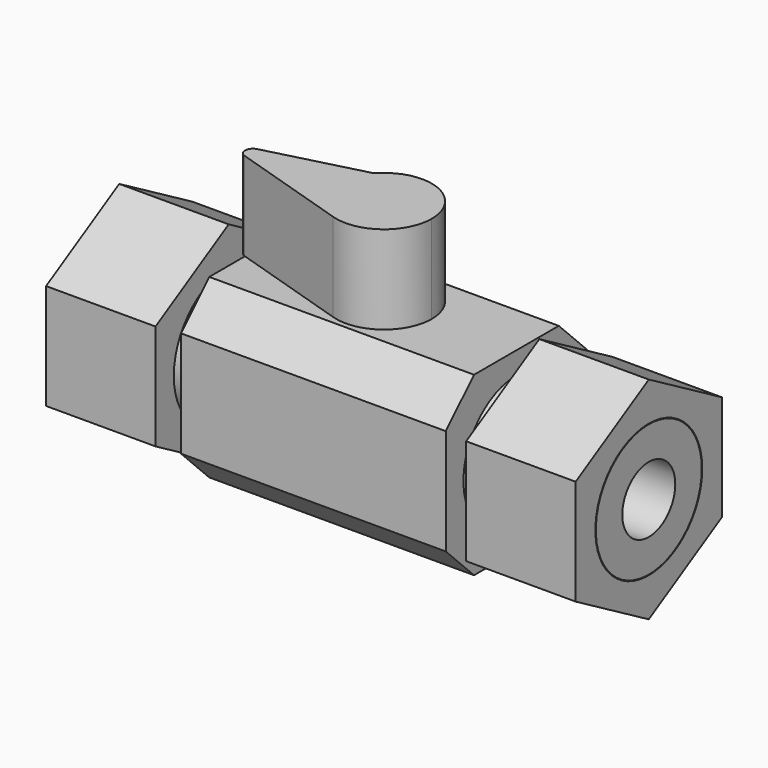
from build123d import *

# Parameters (mm, degrees)
F0_W      = 25.4
F0_H      = 25.4
F1_DEPTH  = 19.05
F2_R      = 9.525
F2_R_2    = 4.7625
F3_DEPTH  = 19.05
F4_R      = 9.525
F4_R_2    = 4.7625
F5_DEPTH  = 19.05
F6_R      = 9.8627532025
F7_DEPTH  = 15.748
F8_R      = 9.6116225183
F9_DEPTH  = 15.748
F10_SIZE  = 5.08
F12_DEPTH = 12.7


with BuildPart() as f1:
    # F0 (on Right) → F1 (new body, symmetric)
    with BuildSketch(Plane.YZ):
        Rectangle(F0_W, F0_H)
    extrude(amount=F1_DEPTH, both=True)

    # F2 (on face) → F3 (join)
    with BuildSketch(Plane.YZ.offset(19.05)):
        Circle(F2_R)
        Circle(F2_R_2, mode=Mode.SUBTRACT)
    extrude(amount=F3_DEPTH)

    # F4 (on face) → F5 (join)
    with BuildSketch(Plane(origin=(-19.05, 0, 0), x_dir=(0, -1, 0), z_dir=(-1, 0, 0))):
        Circle(F4_R)
        Circle(F4_R_2, mode=Mode.SUBTRACT)
    extrude(amount=F5_DEPTH)

    # F10
    f10_edges = [f1.edges().sort_by_distance(p)[0] for p in [
        (0, 12.7, 12.7),
        (0, 12.7, -12.7),
        (0, -12.7, 12.7),
        (0, -12.7, -12.7),
    ]]
    chamfer(f10_edges, length=F10_SIZE)


with BuildPart() as f7:
    # F6 (on face) → F7 (new body)
    with BuildSketch(Plane(origin=(-38.1, 0, 0), x_dir=(0, -1, 0), z_dir=(-1, 0, 0))):
        Polygon((13.1536852568, -7.5942837239), (13.1536852568, 7.5942837239), (0, 15.1885674477), (-13.1536852568, 7.5942837239), (-13.1536852568, -7.5942837239), (0, -15.1885674477), align=None)
        Circle(F6_R, mode=Mode.SUBTRACT)
    extrude(amount=-F7_DEPTH)


with BuildPart() as f9:
    # F8 (on face) → F9 (new body)
    with BuildSketch(Plane.YZ.offset(38.1)):
        Polygon((13.1536852568, -7.5942837239), (13.1536852568, 7.5942837239), (0, 15.1885674477), (-13.1536852568, 7.5942837239), (-13.1536852568, -7.5942837239), (0, -15.1885674477), align=None)
        Circle(F8_R, mode=Mode.SUBTRACT)
    extrude(amount=-F9_DEPTH)


with BuildPart() as f12:
    # F11 (on face) → F12 (new body)
    with BuildSketch(Plane.XY.offset(12.7)):
        with BuildLine():
            ThreePointArc((-2.065765834, -6.5518572039), (4.0621923121, -5.5401096488), (6.869805041, 0))
            ThreePointArc((6.869805041, 0), (2.4578613882, 6.4150712153), (-5.1110702392, 4.5903357515))
            ThreePointArc((-5.1110702392, 4.5903357515), (-6.6267533505, -1.811176781), (-2.065765834, -6.5518572039))
        make_face()
        with BuildLine():
            ThreePointArc((-2.065765834, -6.5518572039), (-6.6267533505, -1.811176781), (-5.1110702392, 4.5903357515))
            Line((-5.1110702392, 4.5903357515), (-19.049598554, 0.9825973271))
            ThreePointArc((-19.049598554, 0.9825973271), (-19.8922110508, -0.0770417102), (-19.1059848489, -1.1791665074))
            Line((-19.1059848489, -1.1791665074), (-2.065765834, -6.5518572039))
        make_face()
    extrude(amount=F12_DEPTH)


solid = Compound([f1.part, f7.part, f9.part, f12.part])
